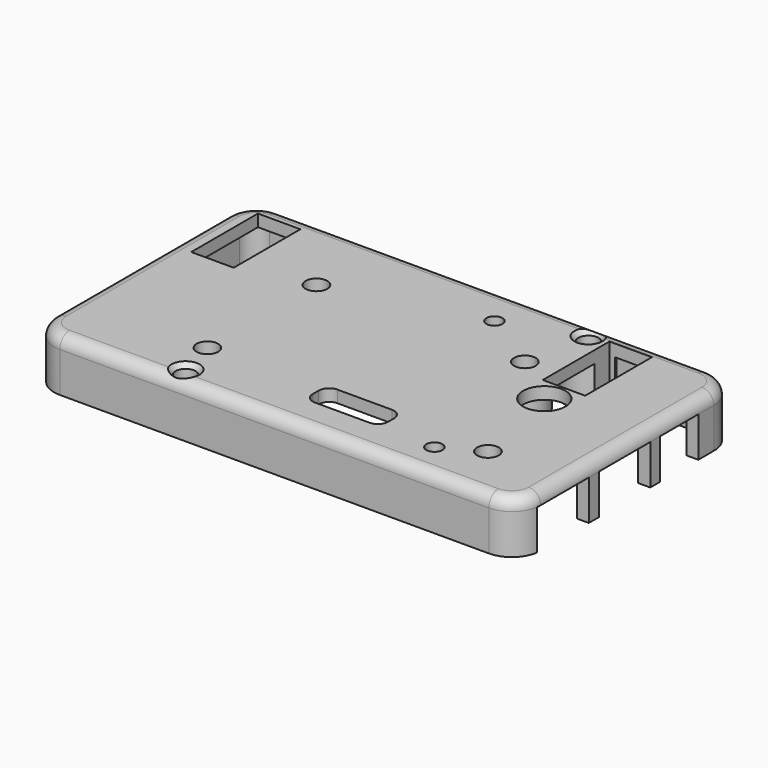
from build123d import *

# Parameters (mm, degrees)
PAD001_DEPTH      = 5
THICKNESS001_T    = 1.5
BOX_W             = 2
BOX_H             = 8
BOX_DEPTH         = 5
BOX001_W          = 2
BOX001_H          = 8
BOX001_DEPTH      = 5
BOX002_W          = 2
BOX002_H          = 6
BOX002_DEPTH      = 5
BOX003_W          = 2
BOX003_H          = 6
BOX003_DEPTH      = 5
CYLINDER001_W     = 3
CYLINDER001_H     = 5
CYLINDER001_ANGLE = 180
BOX005_W          = 6
BOX005_H          = 0.6
BOX005_DEPTH      = 5
CYLINDER005_W     = 3
CYLINDER005_H     = 5
CYLINDER005_ANGLE = 180
BOX007_W          = 6
BOX007_H          = 0.6
BOX007_DEPTH      = 5
SKETCH002_R       = 2.65
SKETCH002_R_2     = 1.25
SKETCH002_R_3     = 1
SKETCH002_W       = 5.3
SKETCH002_H       = 10.4
POCKET_DEPTH      = 6.501
BOX008_W          = 8
BOX008_H          = 2
BOX008_DEPTH      = 4.9
BOX009_W          = 8
BOX009_H          = 2
BOX009_DEPTH      = 4.9
SKETCH006_R       = 2.65
PAD003_DEPTH      = 3.5
SKETCH007_R       = 1.35
POCKET002_DEPTH   = 3.5


with BuildPart() as part:
    # Sketch001 → Pad001 (new body)
    with BuildSketch(Plane.XY):
        with BuildLine():
            Line((2, 31.1), (55.5, 31.1))
            ThreePointArc((57.6, 29), (56.984924, 30.484924), (55.5, 31.1))
            Line((57.6, 29), (57.6, 2))
            ThreePointArc((55.5, -0.1), (56.984924, 0.515076), (57.6, 2))
            Line((55.5, -0.1), (2, -0.1))
            ThreePointArc((-0.1, 2), (0.515076, 0.515076), (2, -0.1))
            Line((-0.1, 2), (-0.1, 29))
            ThreePointArc((2, 31.1), (0.515076, 30.484924), (-0.1, 29))
        make_face()
    extrude(amount=PAD001_DEPTH)

    # Thickness001
    thickness001_openings = [part.faces().sort_by_distance(p)[0] for p in [
        (28.75, 15.5, 0),
    ]]
    offset(amount=THICKNESS001_T, openings=thickness001_openings)

    # Box → Box (cut)
    with BuildSketch(Plane(origin=(57.5, 1.5, 0), x_dir=(1, 0, 0), z_dir=(0, 0, 1))):
        with Locations((1, 4)):
            Rectangle(BOX_W, BOX_H)
    extrude(amount=BOX_DEPTH, mode=Mode.SUBTRACT)

    # Box001 → Box001 (cut)
    with BuildSketch(Plane(origin=(57.5, 11.08, 0), x_dir=(1, 0, 0), z_dir=(0, 0, 1))):
        with Locations((1, 4)):
            Rectangle(BOX001_W, BOX001_H)
    extrude(amount=BOX001_DEPTH, mode=Mode.SUBTRACT)

    # Box002 → Box002 (cut)
    with BuildSketch(Plane(origin=(57.5, 20.575, 0), x_dir=(1, 0, 0), z_dir=(0, 0, 1))):
        with Locations((1, 3)):
            Rectangle(BOX002_W, BOX002_H)
    extrude(amount=BOX002_DEPTH, mode=Mode.SUBTRACT)

    # Box003 → Box003 (cut)
    with BuildSketch(Plane(origin=(-2, 10.35, 0), x_dir=(1, 0, 0), z_dir=(0, 0, 1))):
        with Locations((1, 3)):
            Rectangle(BOX003_W, BOX003_H)
    extrude(amount=BOX003_DEPTH, mode=Mode.SUBTRACT)

    # Cylinder001 → Cylinder001 (revolve)
    with BuildSketch(Plane(origin=(16, 0.5, 0), x_dir=(1, 0, 0), z_dir=(0, -1, 0))):
        with Locations((1.5, 2.5)):
            Rectangle(CYLINDER001_W, CYLINDER001_H)
    revolve(axis=Axis((16, 0.5, 0), (0, 0, 1)), revolution_arc=CYLINDER001_ANGLE)

    # Box005 → Box005 (join)
    with BuildSketch(Plane(origin=(13, -0.1, 0), x_dir=(1, 0, 0), z_dir=(0, 0, 1))):
        with Locations((3, 0.3)):
            Rectangle(BOX005_W, BOX005_H)
    extrude(amount=BOX005_DEPTH)

    # Cylinder005 → Cylinder005 (revolve)
    with BuildSketch(Plane(origin=(42.25, 30.5, 0), x_dir=(-1, 0, 0), z_dir=(0, 1, 0))):
        with Locations((1.5, 2.5)):
            Rectangle(CYLINDER005_W, CYLINDER005_H)
    revolve(axis=Axis((42.25, 30.5, 0), (0, 0, 1)), revolution_arc=CYLINDER005_ANGLE)

    # Box007 → Box007 (join)
    with BuildSketch(Plane(origin=(39.25, 30.5, 0), x_dir=(1, 0, 0), z_dir=(0, 0, 1))):
        with Locations((3, 0.3)):
            Rectangle(BOX007_W, BOX007_H)
    extrude(amount=BOX007_DEPTH)

    # Sketch002 → Pocket (cut, through all)
    with BuildSketch(Plane.XY):
        with Locations((47.135, 17.52)):
            Circle(SKETCH002_R)
        with Locations((16, 0.5)):
            Circle(SKETCH002_R_2)
        with Locations((42.25, 30.5)):
            Circle(SKETCH002_R_2)
        with Locations((45.15, 2.85)):
            Circle(SKETCH002_R_3)
        with Locations((33.1, 27.275)):
            Circle(SKETCH002_R_3)
        with Locations((3.6, 25.39)):
            Rectangle(SKETCH002_W, SKETCH002_H)
        with Locations((47.2, 25.7)):
            Rectangle(SKETCH002_W, SKETCH002_H)
        with BuildLine():
            Line((30.2, 2.925), (37, 2.925))
            ThreePointArc((37, 2.925), (37.919239, 3.305761), (38.3, 4.225))
            Line((38.3, 5.125), (38.3, 4.225))
            ThreePointArc((38.3, 5.125), (37.919239, 6.044239), (37, 6.425))
            Line((37, 6.425), (30.2, 6.425))
            ThreePointArc((30.2, 6.425), (29.280761, 6.044239), (28.9, 5.125))
            Line((28.9, 5.125), (28.9, 4.225))
            ThreePointArc((28.9, 4.225), (29.280761, 3.305761), (30.2, 2.925))
        make_face()
    extrude(amount=POCKET_DEPTH, mode=Mode.SUBTRACT)

    # Cone → Cone (revolve, cut)
    with BuildSketch(Plane(origin=(16, 0.5, 5.8), x_dir=(1, 0, 0), z_dir=(0, -1, 0))):
        Polygon((0, 0), (1.15, 0), (1.75, 0.7), (0, 0.7), align=None)
    revolve(axis=Axis((16, 0.5, 5.8), (0, 0, 1)), mode=Mode.SUBTRACT)

    # Cone001 → Cone001 (revolve, cut)
    with BuildSketch(Plane(origin=(42.25, 30.5, 5.8), x_dir=(1, 0, 0), z_dir=(0, -1, 0))):
        Polygon((0, 0), (1.15, 0), (1.75, 0.7), (0, 0.7), align=None)
    revolve(axis=Axis((42.25, 30.5, 5.8), (0, 0, 1)), mode=Mode.SUBTRACT)

    # Box008 → Box008 (cut)
    with BuildSketch(Plane(origin=(10.35, 31, 0), x_dir=(1, 0, 0), z_dir=(0, 0, 1))):
        with Locations((4, 1)):
            Rectangle(BOX008_W, BOX008_H)
    extrude(amount=BOX008_DEPTH, mode=Mode.SUBTRACT)

    # Box009 → Box009 (cut)
    with BuildSketch(Plane(origin=(21.82, 31, 0), x_dir=(1, 0, 0), z_dir=(0, 0, 1))):
        with Locations((4, 1)):
            Rectangle(BOX009_W, BOX009_H)
    extrude(amount=BOX009_DEPTH, mode=Mode.SUBTRACT)

    # Sketch006 → Pad003 (join)
    with BuildSketch(Plane.XY.offset(5)):
        with Locations((14.8, 22.4)):
            Circle(SKETCH006_R)
        with Locations((49.8, 5.4)):
            Circle(SKETCH006_R)
        with Locations((40.8, 22.4)):
            Circle(SKETCH006_R)
        with Locations((14.8, 5.4)):
            Circle(SKETCH006_R)
    extrude(amount=-PAD003_DEPTH)

    # Sketch007 → Pocket002 (cut)
    with BuildSketch(Plane.XY.offset(6.5)):
        with Locations((14.8, 22.4)):
            Circle(SKETCH007_R)
        with Locations((49.8, 5.4)):
            Circle(SKETCH007_R)
        with Locations((40.8, 22.4)):
            Circle(SKETCH007_R)
        with Locations((14.8, 5.4)):
            Circle(SKETCH007_R)
    extrude(amount=-POCKET002_DEPTH, mode=Mode.SUBTRACT)


solid = part.part
